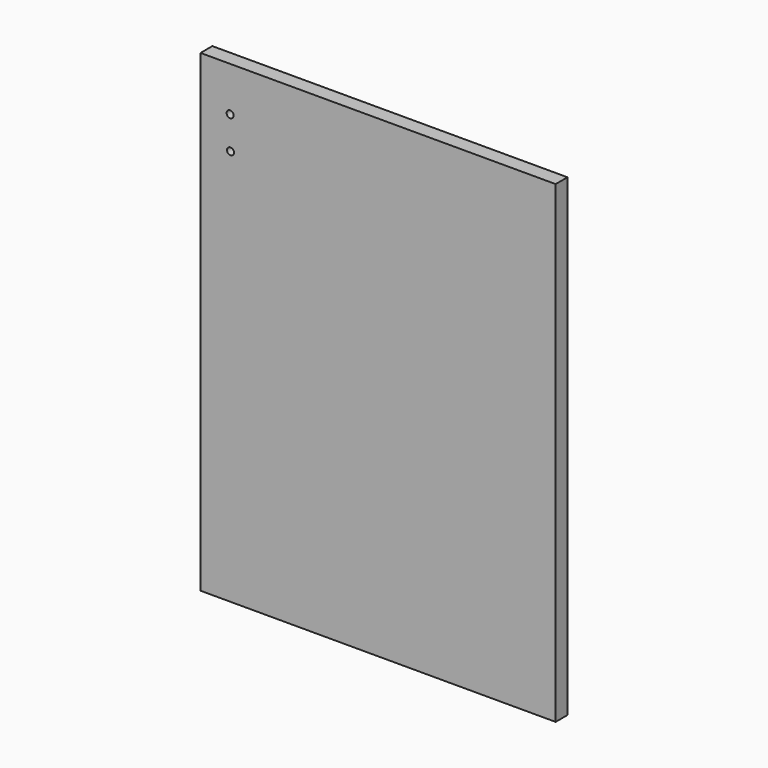
from build123d import *

# Parameters (mm, degrees)
F0_W     = 152.4
F0_H     = 203.2
F1_DEPTH = 6.35
F2_R     = 1.5
F3_R     = 1.5
F4_DEPTH = 25.4


with BuildPart() as f1:
    # F0 (on Front) → F1 (new body)
    with BuildSketch(Plane.XZ):
        Rectangle(F0_W, F0_H)
    extrude(amount=F1_DEPTH)

    # F2 (on Front) + F3 (on Front) → F4 (cut)
    with BuildSketch(Plane.XZ):
        with Locations((-63.500002, 82.550004)):
            Circle(F2_R)
    with BuildSketch(Plane.XZ):
        with Locations((-63.349456, 68.586819)):
            Circle(F3_R)
    extrude(amount=F4_DEPTH, mode=Mode.SUBTRACT)


solid = f1.part
